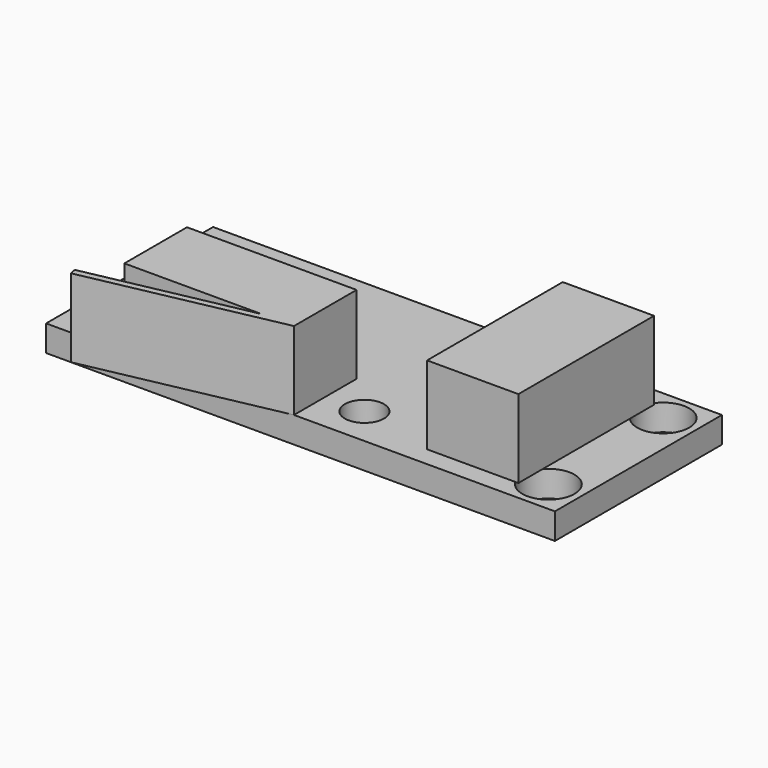
from build123d import *

# Parameters (mm, degrees)
F0_W     = 39
F0_H     = 16
F1_DEPTH = 2
F2_W     = 7
F2_H     = 13
F3_DEPTH = 6
F4_D     = 3
F5_D     = 4
F5_DEPTH = 2.001


with BuildPart() as f1:
    # F0 (on Top) → F1 (new body)
    with BuildSketch(Plane.XY):
        Rectangle(F0_W, F0_H)
    extrude(amount=F1_DEPTH)

    # F2 (on face) → F3 (join)
    with BuildSketch(Plane.XY.offset(2)):
        Polygon((-13.5, -2), (-13.5, -8), (-3, -8), (-0.5, -8), (-0.5, -2), align=None)
        with Locations((12, 0)):
            Rectangle(F2_W, F2_H)
        Polygon((-0.5, -8), (-3, -8), (-15.2969384567, -10.5101020514), (-15.1969384567, -11), align=None)
    extrude(amount=F3_DEPTH)

    # F4 (through all)
    with Locations(Plane.XY.offset(2)):
        with Locations((-16.5, -5), (2.5, -5)):
            Hole(F4_D / 2)

    # F5 (through all, one way)
    with BuildSketch(Plane.XY.offset(2)):
        with Locations((17, 5.5), (17, -5.5)):
            Circle(F5_D / 2)
    extrude(amount=-F5_DEPTH, mode=Mode.SUBTRACT)


solid = f1.part
